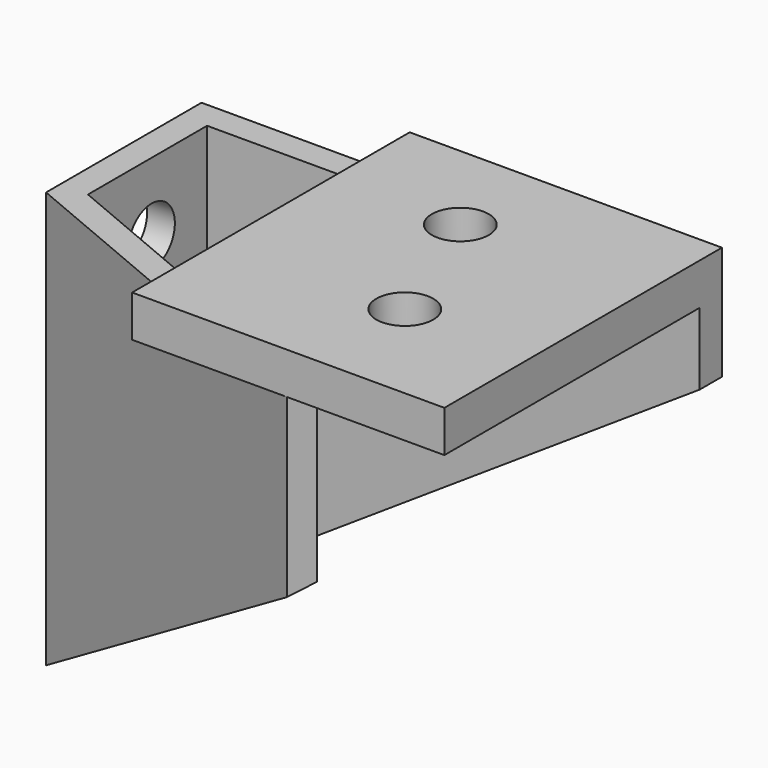
from build123d import *

# Parameters (mm, degrees)
F0_W     = 22.5
F0_H     = 25
F1_DEPTH = 3
F2_R     = 2.05
F3_DEPTH = 25
F4_W     = 2
F4_H     = 2
F4_W_2   = 35.5
F5_DEPTH = 30
F7_DEPTH = 25
F8_R     = 2.1
F9_DEPTH = 25


with BuildPart() as f1:
    # F0 (on Top) → F1 (new body)
    with BuildSketch(Plane.XY):
        with Locations((11.25, 12.5)):
            Rectangle(F0_W, F0_H)
    extrude(amount=F1_DEPTH)

    # F2 (on face) → F3 (cut)
    with BuildSketch(Plane.XY.offset(3)):
        with Locations((9.25, 18)):
            Circle(F2_R)
        with Locations((13.25, 8)):
            Circle(F2_R)
    extrude(amount=-F3_DEPTH, mode=Mode.SUBTRACT)

    # F4 (on Top) → F5 (join)
    with BuildSketch(Plane.XY):
        with Locations((-14, 24)):
            Rectangle(F4_W, F4_H)
        with Locations((4.75, 24)):
            Rectangle(F4_W_2, F4_H)
        Polygon((-13, 23), (-15, 23), (-15, 11), (-14.244832817, 12.7950885872), (-13, 12.2714058573), align=None)
        Polygon((-14.244832817, 12.7950885872), (-15, 11), (-13, 11), (-13, 12.2714058573), align=None)
        Polygon((-13, 11), (-15, 11), (11.1478185281, 0), (11.9029857111, 1.7950885872), (-13, 12.2714058573), align=None)
    extrude(amount=-F5_DEPTH)

    # F6 (on Front) → F7 (cut)
    with BuildSketch(Plane.XZ):
        Polygon((22.5, -30), (22.5, -5.1932623562), (-15, -30), align=None)
    extrude(amount=-F7_DEPTH, mode=Mode.SUBTRACT)

    # F8 (on Right) → F9 (cut)
    with BuildSketch(Plane.YZ):
        with Locations((18, -5)):
            Circle(F8_R)
        with Locations((18, -25)):
            Circle(F8_R)
    extrude(amount=-F9_DEPTH, mode=Mode.SUBTRACT)


solid = f1.part
